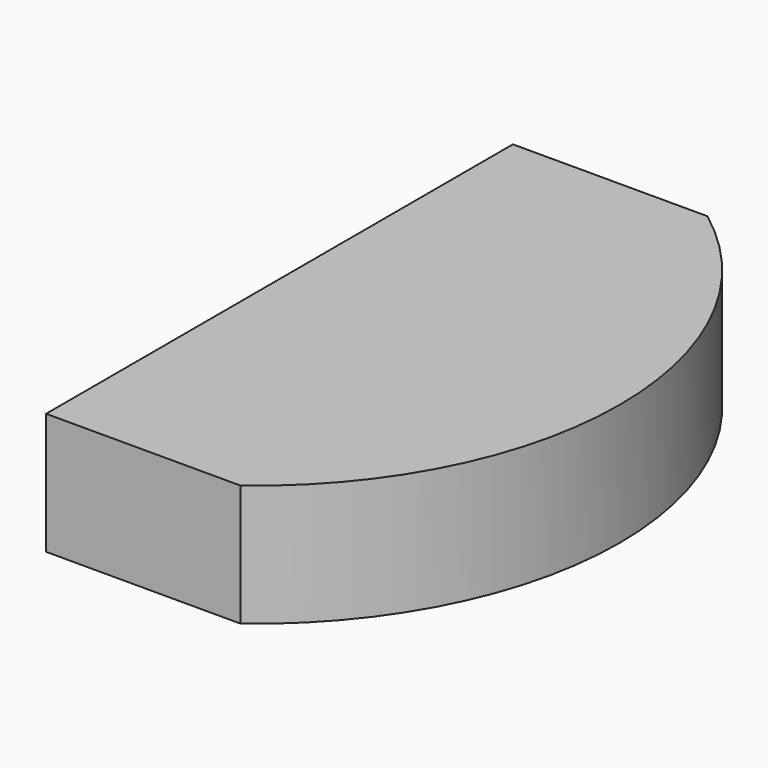
from build123d import *

# Parameters (mm, degrees)
F0_W     = 40
F0_H     = 120
F1_DEPTH = 25


with BuildPart() as f1:
    # F0 (on Top) → F1 (new body)
    with BuildSketch(Plane.XY):
        with Locations((-2.808141, 41.773309)):
            Rectangle(F0_W, F0_H)
        with BuildLine():
            Line((17.191859, 101.773309), (17.191859, -18.226691))
            ThreePointArc((17.191859, -18.226691), (47.191859, 41.773309), (17.191859, 101.773309))
        make_face()
    extrude(amount=F1_DEPTH)


solid = f1.part
